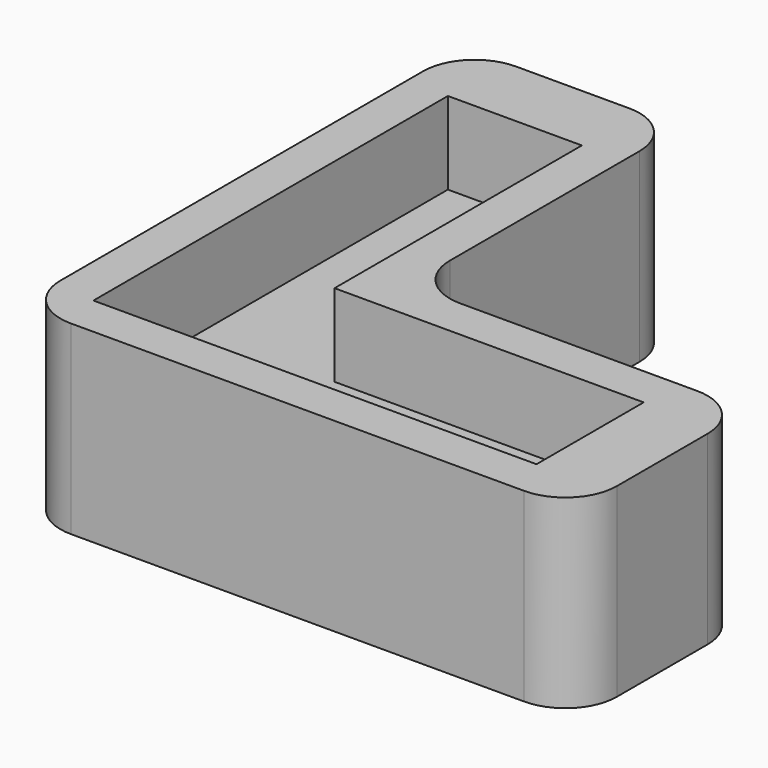
from build123d import *

# Parameters (mm, degrees)
F1_DEPTH = 18
F2_DEPTH = 10
F3_R     = 5


with BuildPart() as f1:
    # F0 (on Top) → F1 (new body)
    with BuildSketch(Plane.XY):
        Polygon((0, 54), (0, 0), (54, 0), (54, 4), (47, 4), (4, 4), (4, 47), (4, 54), align=None)
        Polygon((47, 4), (54, 4), (54, 21), (21, 21), (21, 54), (4, 54), (4, 47), (17, 47), (17, 17), (47, 17), align=None)
    extrude(amount=F1_DEPTH)

    # F0 (on Top) → F2 (join)
    with BuildSketch(Plane.XY):
        Polygon((4, 4), (47, 4), (47, 17), (17, 17), (17, 47), (4, 47), align=None)
    extrude(amount=F2_DEPTH)

    # F3
    f3_edges = [f1.edges().sort_by_distance(p)[0] for p in [
        (0, 0, 9),
        (0, 54, 9),
        (54, 0, 9),
        (54, 21, 9),
        (21, 54, 9),
        (21, 21, 9),
    ]]
    fillet(f3_edges, radius=F3_R)


solid = f1.part
